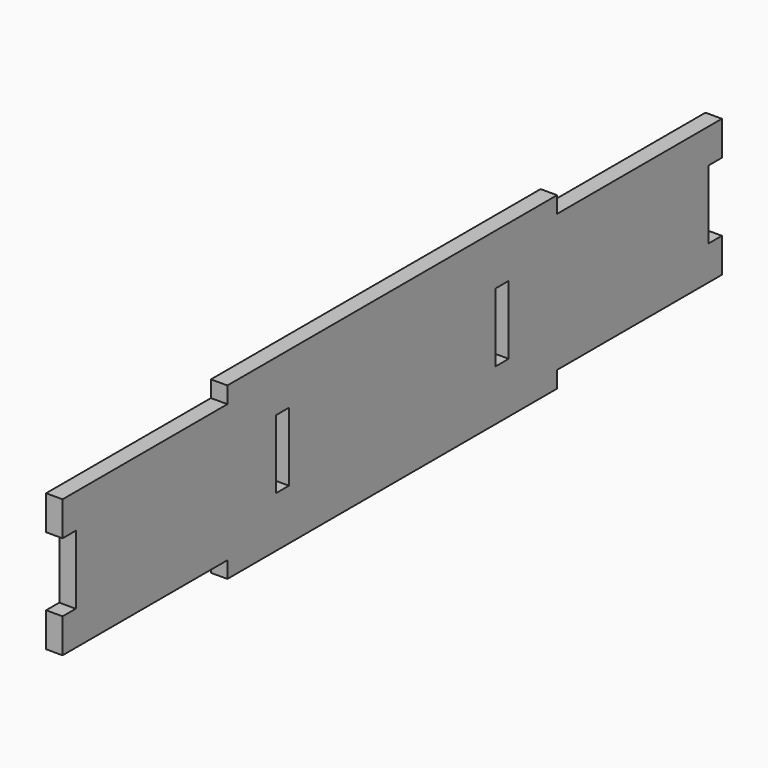
from build123d import *

# Parameters (mm, degrees)
F0_W     = 150
F0_H     = 6
F1_DEPTH = 6
F2_W     = 6
F2_H     = 25
F3_DEPTH = 6


with BuildPart() as f1:
    # F0 (on Right) → F1 (new body)
    with BuildSketch(Plane.YZ):
        Polygon((-75, 25), (-150, 25), (-150, 12.5), (-144, 12.5), (-144, -12.5), (-150, -12.5), (-150, -25), (-75, -25), (-75, -19), (75, -19), (75, -25), (150, -25), (150, -12.5), (144, -12.5), (144, 12.5), (150, 12.5), (150, 25), (75, 25), (75, 19), (-75, 19), align=None)
        with Locations((0, 28)):
            Rectangle(F0_W, F0_H)
        with Locations((0, 22)):
            Rectangle(F0_W, F0_H)
        with Locations((0, -28)):
            Rectangle(F0_W, F0_H)
        with Locations((0, -22)):
            Rectangle(F0_W, F0_H)
    extrude(amount=F1_DEPTH)

    # F2 (on face) → F3 (cut, through all)
    with BuildSketch(Plane.YZ.offset(6)):
        with Locations((-50, 0)):
            Rectangle(F2_W, F2_H)
        with Locations((50, 0)):
            Rectangle(F2_W, F2_H)
    extrude(amount=-F3_DEPTH, mode=Mode.SUBTRACT)


solid = f1.part
